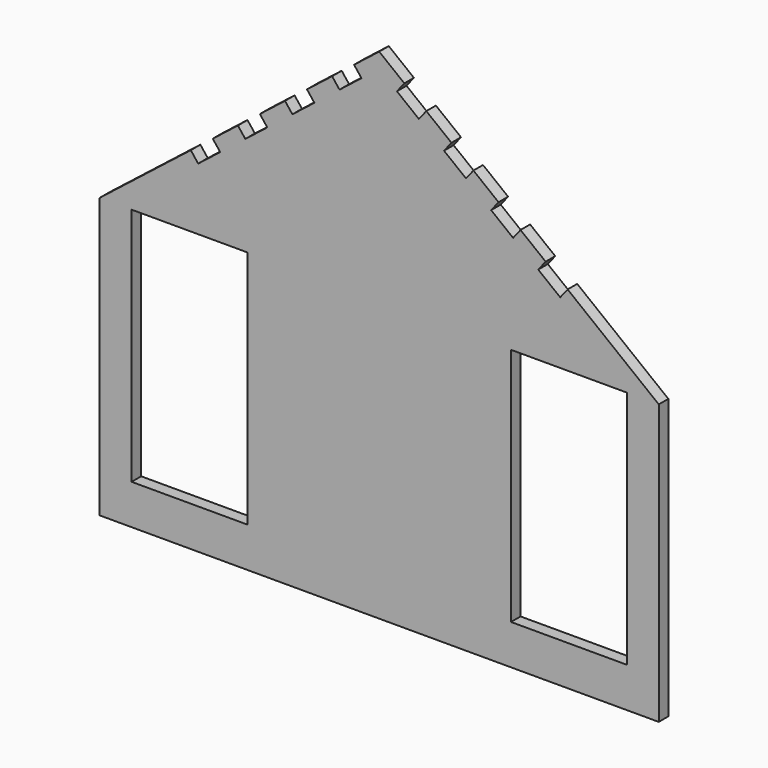
from build123d import *

# Parameters (mm, degrees)
F0_W     = 36.83
F0_H     = 76.2
F1_DEPTH = 3.81
F2_W     = 8.89
F2_H     = 3.81
F3_DEPTH = 3.81
F4_W     = 8.89
F4_H     = 3.81
F5_DEPTH = 3.81


with BuildPart() as f1:
    # F0 (on Front) → F1 (new body)
    with BuildSketch(Plane.XZ):
        Polygon((-88.9, -66.0091239631), (0, -66.0091239631), (88.9, -66.0091239631), (88.9, 22.8908760369), (0, 92.7408760369), (-88.9, 22.8908760369), align=None)
        with Locations((-60.325, -15.2091239631)):
            Rectangle(F0_W, F0_H, mode=Mode.SUBTRACT)
        with Locations((60.325, -15.2091239631)):
            Rectangle(F0_W, F0_H, mode=Mode.SUBTRACT)
    extrude(amount=F1_DEPTH)

    # F2 (on face) → F3 (cut)
    with BuildSketch(Plane(origin=(-45.0539271599, 0, 57.3413618398), x_dir=(0.7863183388, 0, 0.6178215519), z_dir=(-0.6178215519, 0, 0.7863183388))):
        with Locations((-14.4576880394, -1.905)):
            Rectangle(F2_W, F2_H)
        with Locations((23.6423119606, -1.905)):
            Rectangle(F2_W, F2_H)
        with Locations((42.6923119606, -1.905)):
            Rectangle(F2_W, F2_H)
        with Locations((4.5923119606, -1.905)):
            Rectangle(F2_W, F2_H)
    extrude(amount=-F3_DEPTH, mode=Mode.SUBTRACT)

    # F4 (on face) → F5 (cut)
    with BuildSketch(Plane(origin=(45.0539271599, 0, 57.3413618398), x_dir=(0.7863183388, 0, -0.6178215519), z_dir=(0.6178215519, 0, 0.7863183388))):
        with Locations((-42.6923119606, -1.905)):
            Rectangle(F4_W, F4_H)
        with Locations((-23.6423119606, -1.905)):
            Rectangle(F4_W, F4_H)
        with Locations((-4.5923119606, -1.905)):
            Rectangle(F4_W, F4_H)
        with Locations((14.4576880394, -1.905)):
            Rectangle(F4_W, F4_H)
    extrude(amount=-F5_DEPTH, mode=Mode.SUBTRACT)


solid = f1.part
